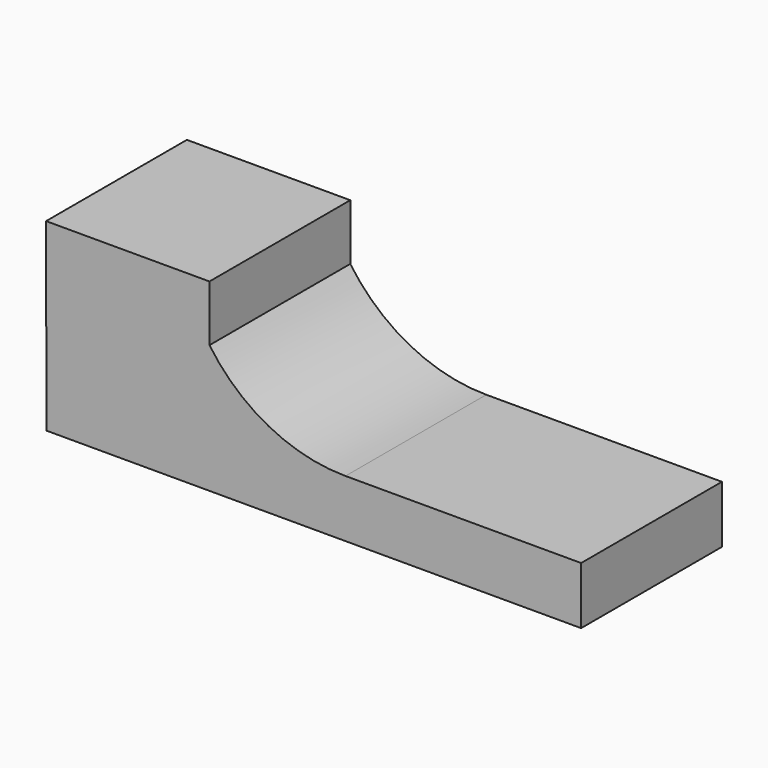
from build123d import *

# Parameters (mm, degrees)
F0_W     = 119.03533
F0_H     = 28.961802
F0_W_2   = 82.531182
F0_H_2   = 28.334502
F1_DEPTH = 63.5
F2_DEPTH = 38.1


with BuildPart() as f1:
    # F0 (on Front) → F1 (new body, symmetric)
    with BuildSketch(Plane.XZ):
        Rectangle(F0_W, F0_H)
        with BuildLine():
            Line((-59.517665, -14.480901), (-59.517665, 14.480901))
            ThreePointArc((-59.517665, 14.480901), (-98.261712, 23.976224), (-128.224785, 50.310169))
            Line((-128.224785, 50.310169), (-210.755967, 50.310169))
            Line((-210.755967, 50.310169), (-210.454815, -14.480901))
            Line((-210.454815, -14.480901), (-59.517665, -14.480901))
        make_face()
        with Locations((-169.490376, 64.47742)):
            Rectangle(F0_W_2, F0_H_2)
    extrude(amount=F1_DEPTH, both=True)

    # F1_face (on face) → F2 (cut)
    with BuildSketch(Plane(origin=(-113.343632, 63.5, 19.109713), x_dir=(1, 0, 0), z_dir=(0, 1, 0))):
        with BuildLine():
            Line((172.861297, 4.628812), (172.861297, 33.590614))
            Line((172.861297, 33.590614), (-97.111183, 33.590614))
            Line((-97.111183, 33.590614), (-97.412335, -31.200456))
            Line((-97.412335, -31.200456), (-97.412335, -59.534958))
            Line((-97.412335, -59.534958), (-14.881153, -59.534958))
            Line((-14.881153, -59.534958), (-14.881153, -31.200456))
            ThreePointArc((-14.881153, -31.200456), (15.08192, -4.866511), (53.825967, 4.628812))
            Line((53.825967, 4.628812), (172.861297, 4.628812))
        make_face()
        with BuildLine():
            Line((-97.111183, 33.590614), (172.861297, 33.590614))
            Line((172.861297, 33.590614), (172.861297, 4.628812))
            Line((172.861297, 4.628812), (53.825967, 4.628812))
            ThreePointArc((53.825967, 4.628812), (15.08192, -4.866511), (-14.881153, -31.200456))
            Line((-14.881153, -31.200456), (-14.881153, -59.534958))
            Line((-14.881153, -59.534958), (-97.412335, -59.534958))
            Line((-97.412335, -59.534958), (-97.412335, -31.200456))
            Line((-97.412335, -31.200456), (-97.111183, 33.590614))
        make_face()
    extrude(amount=-F2_DEPTH, mode=Mode.SUBTRACT)


solid = f1.part
